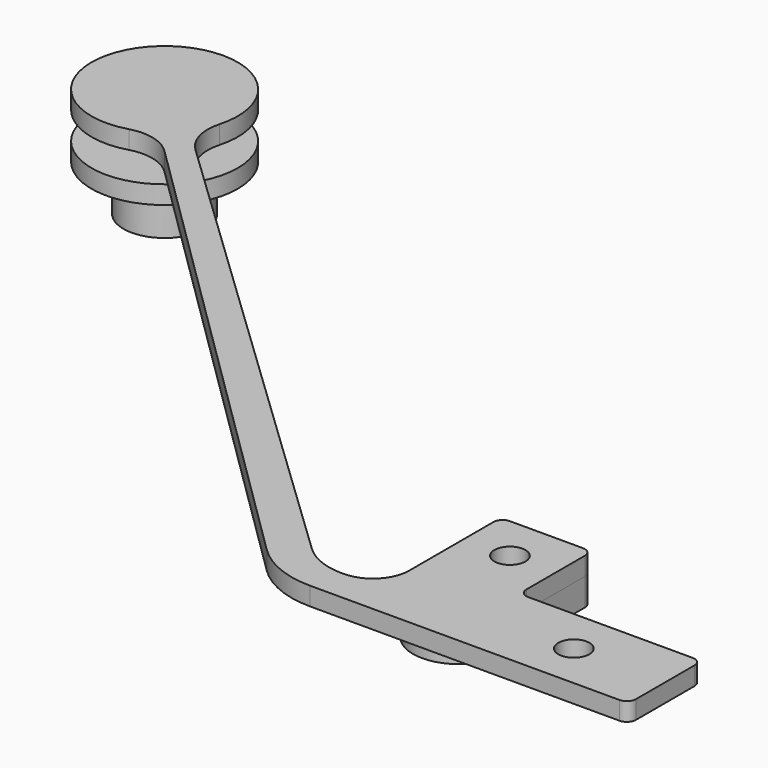
from build123d import *

# Parameters (mm, degrees)
SKETCH_R      = 1.7
PAD_DEPTH     = 2
SKETCH001_R   = 1.7
PAD001_DEPTH  = 3
PAD003_DEPTH  = 2
SKETCH004_R   = 2
PAD004_DEPTH  = 10
FILLET_R      = 1
FILLET001_R   = 1
FILLET002_R   = 4
FILLET003_R   = 7
FILLET004_R   = 10
FILLET005_R   = 1
FILLET006_R   = 5
SKETCH005_R   = 8
SKETCH005_R_2 = 2
PAD005_DEPTH  = 2
SKETCH006_R   = 4.5
SKETCH006_R_2 = 2
PAD006_DEPTH  = 5


with BuildPart() as main:
    # Sketch → Pad (new body)
    with BuildSketch(Plane.XY):
        Polygon((0, 0), (30, 0), (30, 10), (10, 10), (10, 20), (0, 20), align=None)
        with Locations((20, 5)):
            Circle(SKETCH_R, mode=Mode.SUBTRACT)
        with Locations((5, 15)):
            Circle(SKETCH_R, mode=Mode.SUBTRACT)
    extrude(amount=PAD_DEPTH)

    # Sketch001 (on Face9 of Pad) → Pad001 (join)
    with BuildSketch(Plane(origin=(0, 0, 0), x_dir=(1, 0, 0), z_dir=(0, 0, -1))):
        with BuildLine():
            ThreePointArc((10, -8.001658), (5.000821, -3), (0, -8.000017))
            Line((0, -20), (0, -8.000017))
            Line((9.996021, -20), (0, -20))
            Line((10, -8.001658), (9.996021, -20))
        make_face()
        with Locations((5, -15)):
            Circle(SKETCH001_R, mode=Mode.SUBTRACT)
    extrude(amount=PAD001_DEPTH)

    # Sketch003 (on Face5 of Pad001) → Pad003 (join)
    with BuildSketch(Plane.XY.offset(2)):
        with BuildLine():
            Line((0, 0), (-9, 0))
            Line((-9, 0), (-67.33631, 57.5))
            ThreePointArc((-65.5, 59.33631), (-77.656854, 69.656854), (-67.33631, 57.5))
            Line((-7, 3.5), (-65.5, 59.33631))
            Line((0, 3.5), (-7, 3.5))
            Line((0, 0), (0, 3.5))
        make_face()
    extrude(amount=-PAD003_DEPTH)

    # Sketch004 (on Face10 of Pad003) → Pad004 (join)
    with BuildSketch(Plane(origin=(0, 0, 0), x_dir=(1, 0, 0), z_dir=(0, 0, -1))):
        with Locations((-72.067764, -64.067764)):
            Circle(SKETCH004_R)
    extrude(amount=PAD004_DEPTH)

    # Fillet
    fillet_edges = [main.edges().sort_by_distance(p)[0] for p in [
        (9.996021, 20, -1.5),
        (0, 20, -1.5),
    ]]
    fillet(fillet_edges, radius=FILLET_R)

    # Fillet001
    fillet001_edges = [main.edges().sort_by_distance(p)[0] for p in [
        (10, 20, 1),
        (10, 10, 1),
        (30, 10, 1),
        (30, 0, 1),
    ]]
    fillet(fillet001_edges, radius=FILLET001_R)

    # Fillet002
    fillet002_edges = [main.edges().sort_by_distance(p)[0] for p in [
        (0, 3.5, 1),
    ]]
    fillet(fillet002_edges, radius=FILLET002_R)

    # Fillet003
    fillet003_edges = [main.edges().sort_by_distance(p)[0] for p in [
        (-7, 3.5, 1),
    ]]
    fillet(fillet003_edges, radius=FILLET003_R)

    # Fillet004
    fillet004_edges = [main.edges().sort_by_distance(p)[0] for p in [
        (-9, 0, 1),
    ]]
    fillet(fillet004_edges, radius=FILLET004_R)

    # Fillet005
    fillet005_edges = [main.edges().sort_by_distance(p)[0] for p in [
        (-74.067764, 64.067764, -10),
    ]]
    fillet(fillet005_edges, radius=FILLET005_R)

    # Fillet006
    fillet006_edges = [main.edges().sort_by_distance(p)[0] for p in [
        (-65.5, 59.33631, 1),
        (-67.33631, 57.5, 1),
    ]]
    fillet(fillet006_edges, radius=FILLET006_R)


with BuildPart() as cover:
    # Sketch005 → Pad005 (new body)
    with BuildSketch(Plane.XY):
        with Locations((-72, 64)):
            Circle(SKETCH005_R)
        with Locations((-72, 64)):
            Circle(SKETCH005_R_2, mode=Mode.SUBTRACT)
    extrude(amount=PAD005_DEPTH)

    # Sketch006 (on Face3 of Pad005) → Pad006 (join)
    with BuildSketch(Plane(origin=(0, 0, 0), x_dir=(1, 0, 0), z_dir=(0, 0, -1))):
        with Locations((-72, -64)):
            Circle(SKETCH006_R)
        with Locations((-72, -64)):
            Circle(SKETCH006_R_2, mode=Mode.SUBTRACT)
    extrude(amount=PAD006_DEPTH)


with BuildPart() as cover_1:
    # Body placement: moved
    add(cover.part.moved(Location((0, 0, -5))))


solid = Compound([main.part, cover_1.part])
